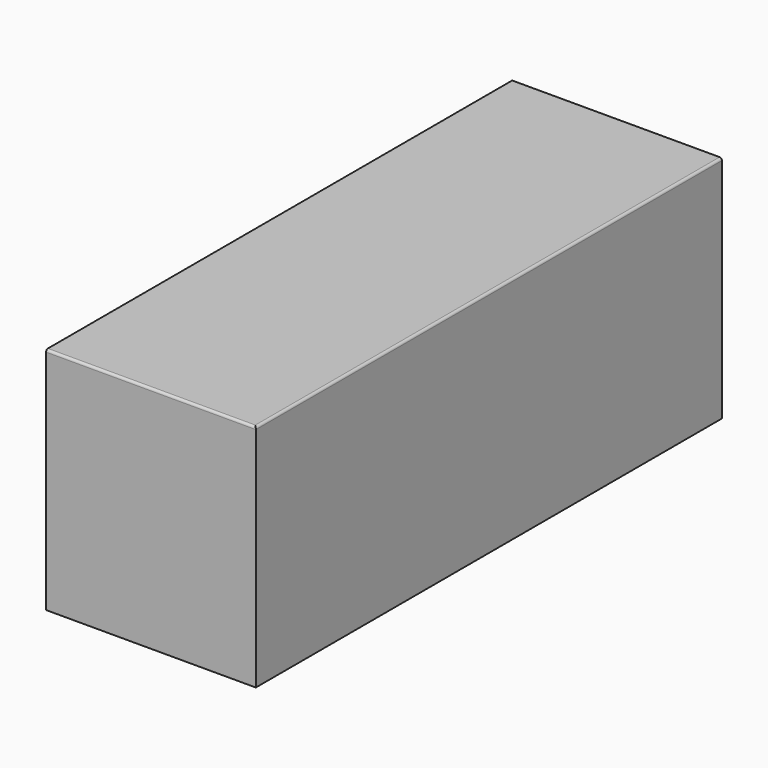
from build123d import *

# Parameters (mm, degrees)
F0_W     = 457.2
F0_H     = 500
F1_DEPTH = 635
F2_R     = 5.08


with BuildPart() as f1:
    # F0 (on Front) → F1 (new body, symmetric)
    with BuildSketch(Plane.XZ):
        Rectangle(F0_W, F0_H)
    extrude(amount=F1_DEPTH, both=True)

    # F2
    f2_edges = [f1.edges().sort_by_distance(p)[0] for p in [
        (0, -635, 250),
        (228.6, 0, 250),
    ]]
    fillet(f2_edges, radius=F2_R)


solid = f1.part
